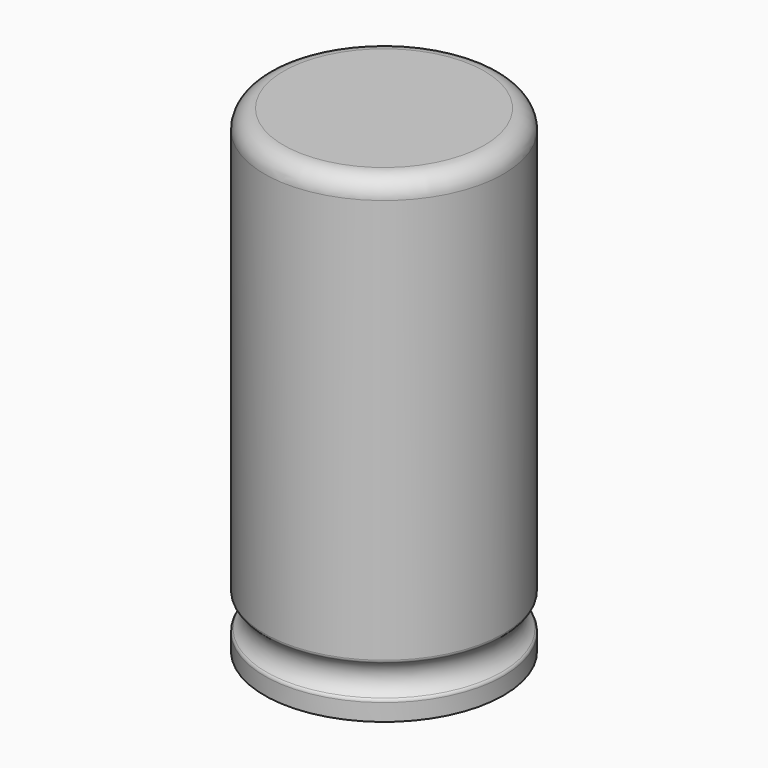
from build123d import *


with BuildPart() as f1:
    # F0 (on Front) → F1 (revolve)
    with BuildSketch(Plane.XZ):
        with BuildLine():
            Line((0, 25), (0, 0))
            Line((0, 0), (6.25, 0))
            Line((6.25, 0), (6.25, 0.891346))
            ThreePointArc((6.25, 0.891346), (6.227951, 0.982633), (6.166667, 1.053793))
            ThreePointArc((6.166667, 1.053793), (5.75, 1.866025), (6.166667, 2.678258))
            ThreePointArc((6.166667, 2.678258), (6.227951, 2.749418), (6.25, 2.840705))
            Line((6.25, 2.840705), (6.25, 24))
            ThreePointArc((6.25, 24), (5.957107, 24.707107), (5.25, 25))
            Line((5.25, 25), (0, 25))
        make_face()
    revolve(axis=Axis((0, 0, 12.5), (0, 0, -1)))


solid = f1.part
